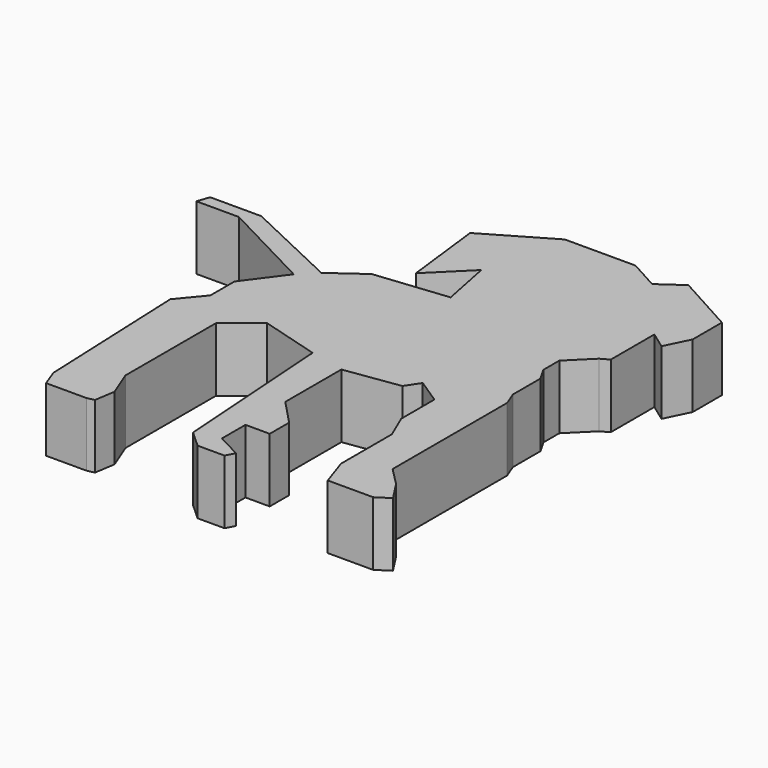
from build123d import *

# Parameters (mm, degrees)
F1_DEPTH = 2


with BuildPart() as f1:
    # F0 (on Top) → F1 (new body)
    with BuildSketch(Plane.XY):
        Polygon((2.133186, 10.8692), (0.535584, 10.8692), (0.407921, 10.491801), (1.736016, 10.491977), (4.674575, 8.96254), (3.783113, 7.761197), (3.783113, 6.820804), (3.14499, 6.048339), (3.346503, 1.228828), (3.548015, 0.691461), (4.805898, 0.691461), (5.036533, 0.740031), (5.137381, 1.378337), (4.805898, 2.219599), (4.805898, 5.757912), (5.783849, 6.538827), (7.629942, 6.006585), (7.981294, 0.892974), (8.501868, 0.420698), (9.343776, 0.420698), (9.486283, 0.691461), (8.727423, 1.090862), (8.727423, 2.009483), (9.486283, 2.009483), (9.486283, 2.768344), (8.727423, 3.567145), (8.727423, 5.757912), (10.437314, 6.006585), (10.724425, 6.442828), (11.495225, 5.935529), (11.495225, 4.636892), (11.831079, 3.853232), (11.831079, 1.865259), (12.133348, 0.968523), (13.551969, 0.968523), (13.961146, 1.233567), (13.551969, 1.865259), (12.992449, 2.430047), (12.992449, 5.666846), (12.992449, 6.905301), (12.822998, 7.343051), (12.822998, 8.420852), (12.589648, 8.825749), (12.589648, 9.447753), (13.279602, 10.131271), (13.537314, 10.27834), (13.537314, 11.981041), (14.061457, 11.600529), (14.432475, 12.358801), (14.432475, 13.501174), (12.557538, 14.535623), (11.831079, 14.024463), (10.904603, 14.535623), (8.690983, 14.535623), (6.672292, 13.357376), (6.969364, 10.8692), (8.110049, 11.999245), (8.429378, 10.401262), (6.152613, 10.161255), (5.15395, 9.442012), align=None)
    extrude(amount=F1_DEPTH)


solid = f1.part
